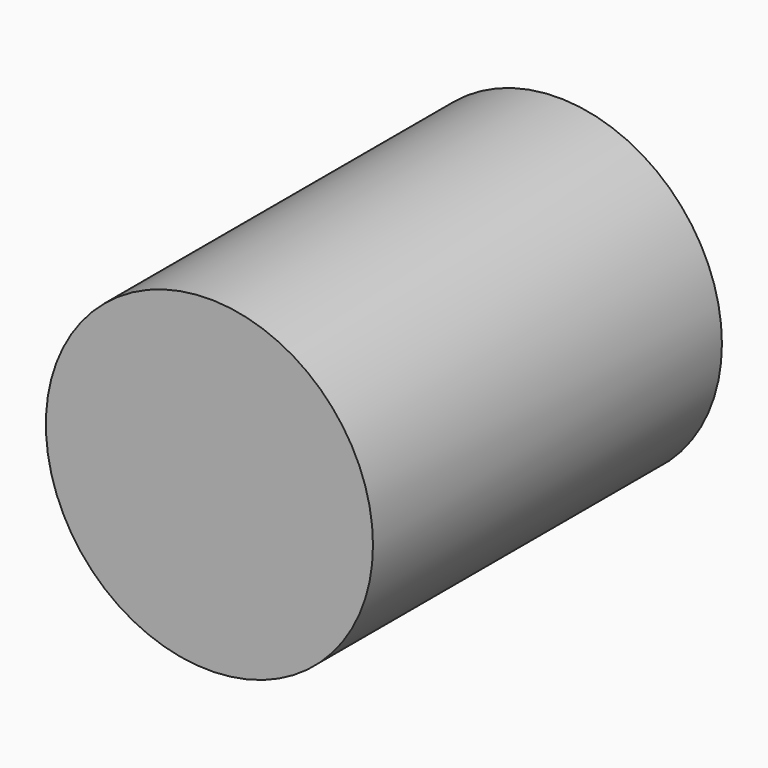
from build123d import *

# Parameters (mm, degrees)
F0_R     = 190.5
F1_DEPTH = 508
F2_R     = 9.525
F3_DEPTH = 50.8


with BuildPart() as f1:
    # F0 (on Front) → F1 (new body)
    with BuildSketch(Plane.XZ):
        Circle(F0_R)
    extrude(amount=F1_DEPTH)

    # F2 (on face) → F3 (cut)
    with BuildSketch(Plane(origin=(0, 0, 0), x_dir=(-1, 0, 0), z_dir=(0, 1, 0))):
        with Locations((0, 104.775)):
            Circle(F2_R)
        with Locations((104.775, 0)):
            Circle(F2_R)
        with Locations((0, -104.775)):
            Circle(F2_R)
        with Locations((-104.775, 0)):
            Circle(F2_R)
    extrude(amount=-F3_DEPTH, mode=Mode.SUBTRACT)


solid = f1.part
